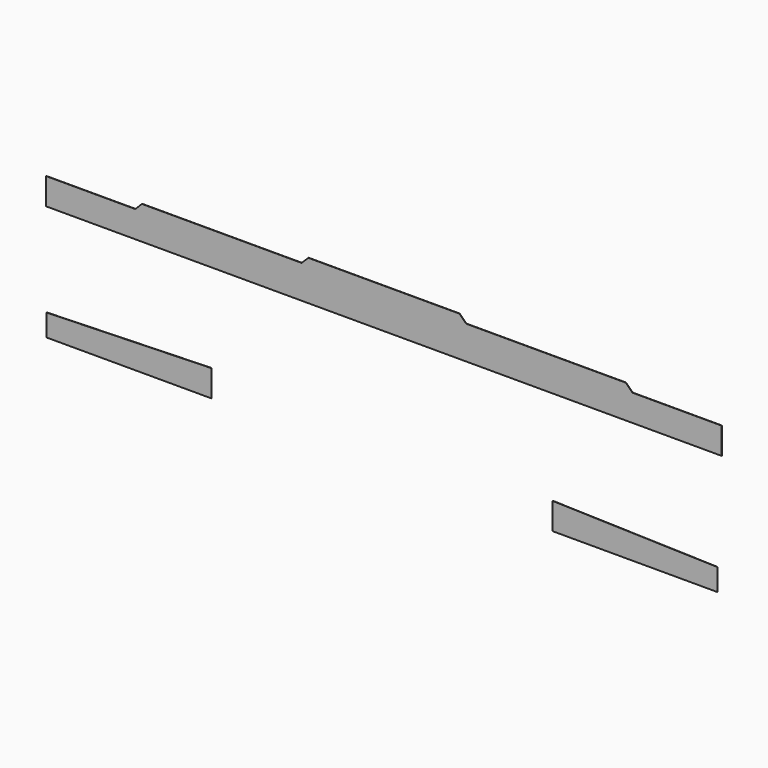
from build123d import *

# Parameters (mm, degrees)
F1_DEPTH = 5


with BuildPart() as f1:
    # F0 (on Front) → F1 (new body)
    with BuildSketch(Plane.XZ):
        Polygon((-5075, 0), (0, 0), (5075, 0), (5075, 400), (3735, 400), (3635, 500), (1235, 500), (1135, 600), (0, 600), (-1135, 600), (-1235, 500), (-3635, 500), (-3735, 400), (-5075, 400), align=None)
        Polygon((-2590.043449, -1332.525544), (-5065.043449, -1402.525544), (-5065.043449, -1732.525544), (-2590.043449, -1732.525544), align=None)
        Polygon((2536.413252, -1421.714878), (2536.413252, -1821.714878), (5011.413252, -1821.714878), (5011.413252, -1491.714878), align=None)
    extrude(amount=F1_DEPTH)


solid = f1.part
